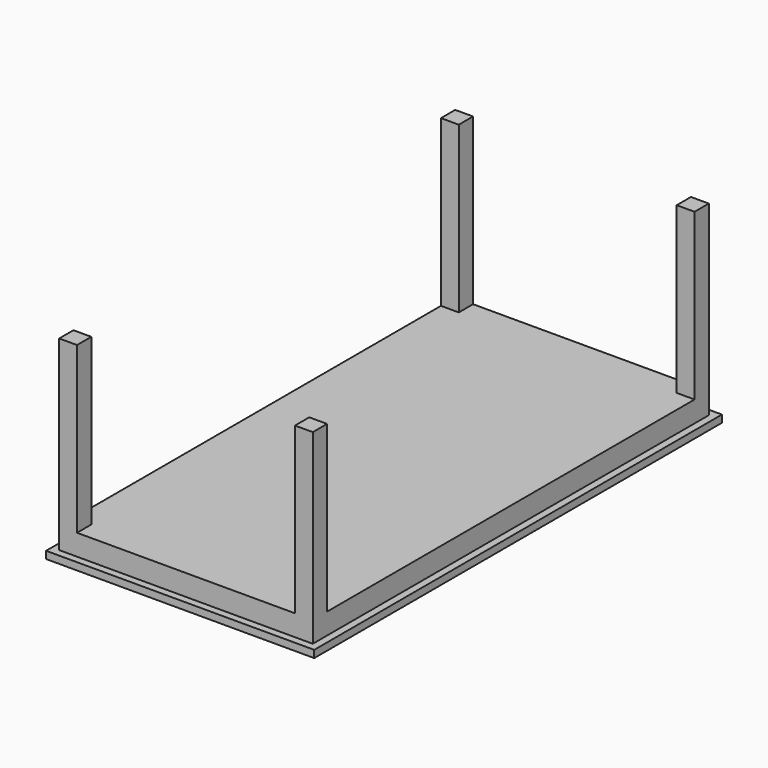
from build123d import *

# Parameters (mm, degrees)
F0_W     = 1050.925
F0_H     = 1997.075
F1_DEPTH = 28.575
F2_W     = 993.775
F2_H     = 1939.925
F3_DEPTH = 82.55
F4_W     = 69.85
F4_H     = 69.85
F5_DEPTH = 647.7


with BuildPart() as f1:
    # F0 (on Top) → F1 (new body)
    with BuildSketch(Plane.XY):
        with Locations((1.311136, 625.877863)):
            Rectangle(F0_W, F0_H)
    extrude(amount=F1_DEPTH)

    # F2 (on face) → F3 (join)
    with BuildSketch(Plane.XY.offset(28.575)):
        with Locations((1.311136, 625.877863)):
            Rectangle(F2_W, F2_H)
    extrude(amount=F3_DEPTH)

    # F4 (on face) → F5 (join)
    with BuildSketch(Plane.XY.offset(111.125)):
        with Locations((-460.651364, 1560.915363)):
            Rectangle(F4_W, F4_H)
        with Locations((463.273636, 1560.915363)):
            Rectangle(F4_W, F4_H)
        with Locations((463.273636, -309.159637)):
            Rectangle(F4_W, F4_H)
        with Locations((-460.651364, -309.159637)):
            Rectangle(F4_W, F4_H)
    extrude(amount=F5_DEPTH)


solid = f1.part
